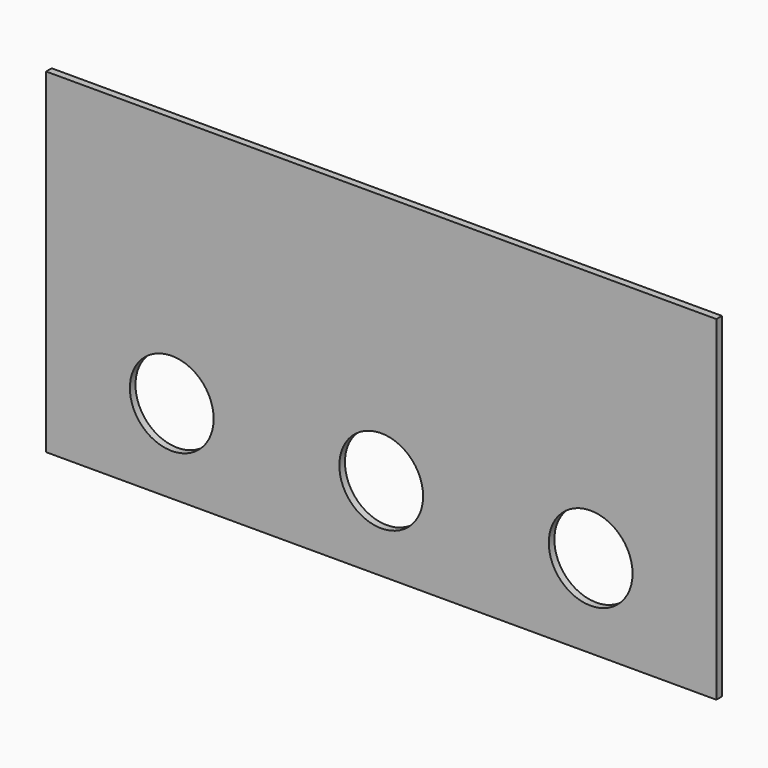
from build123d import *

# Parameters (mm, degrees)
F0_W     = 304.8
F0_H     = 152.4
F1_DEPTH = 1.5875
F2_R     = 19.05
F3_DEPTH = 3.176


with BuildPart() as f1:
    # F0 (on Front) → F1 (new body, symmetric)
    with BuildSketch(Plane.XZ):
        Rectangle(F0_W, F0_H)
    extrude(amount=F1_DEPTH, both=True)

    # F2 (on face) → F3 (cut, through all)
    with BuildSketch(Plane.XZ.offset(1.5875)):
        with Locations((-95.25, -38.1)):
            Circle(F2_R)
        with Locations((0, -38.1)):
            Circle(F2_R)
        with Locations((95.25, -38.1)):
            Circle(F2_R)
    extrude(amount=-F3_DEPTH, mode=Mode.SUBTRACT)


solid = f1.part
